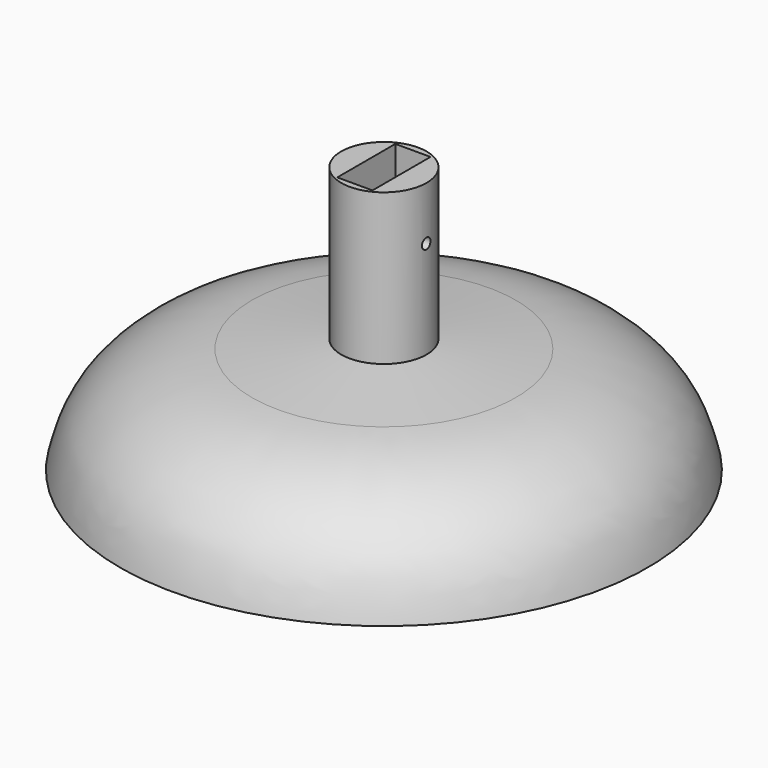
from build123d import *

# Parameters (mm, degrees)
F0_R          = 4
F1_DEPTH      = 25
F0_W          = 3.3
F0_H          = 3.4
F4_DEPTH      = 15
F5_R          = 0.5
F6_DEPTH      = 26.4001190755
F6_DEPTH_BACK = 25


with BuildPart() as f1:
    # F0 (on Top) → F1 (new body)
    with BuildSketch(Plane.XY):
        Circle(F0_R)
        Polygon((-1.65, 3.4), (1.65, 3.4), (1.65, 0), (1.65, -3.4), (-1.65, -3.4), (-1.65, 0), align=None, mode=Mode.SUBTRACT)
    extrude(amount=F1_DEPTH)

    # F2 (on Front) → F3 (revolve)
    with BuildSketch(Plane.XZ):
        with BuildLine():
            Line((-24.7491189755, 0), (0, 0))
            Line((0, 0), (0, 10))
            Line((0, 10), (0, 11.2270785248))
            Line((0, 11.2270785248), (-12.3745594877, 10))
            add(Edge.make_bspline(
                [(-24.7491189755, 0), (-24.5552147878, 0.7300171854), (-23.7249598085, 5.3215287656), (-17.9770797483, 9.444446301), (-12.3745594877, 10)],
                knots=[0, 0, 0, 0, 0.3719475725, 1, 1, 1, 1], degree=3))
        make_face()
    revolve(axis=Axis((0, 0, 0), (0, 0, -1)))

    # F0 (on Top) → F4 (join)
    with BuildSketch(Plane.XY):
        with Locations((0, 1.7)):
            Rectangle(F0_W, F0_H)
        with Locations((0, -1.7)):
            Rectangle(F0_W, F0_H)
    extrude(amount=F4_DEPTH)

    # F5 (on face) → F6 (cut, two sides)
    with BuildSketch(Plane(origin=(1.65, 0, 0), x_dir=(0, -1, 0), z_dir=(-1, 0, 0))) as f6_sk:
        with Locations((0, 20)):
            Circle(F5_R)
    extrude(amount=F6_DEPTH, mode=Mode.SUBTRACT)
    extrude(f6_sk.sketch, amount=-F6_DEPTH_BACK, mode=Mode.SUBTRACT)


solid = f1.part
